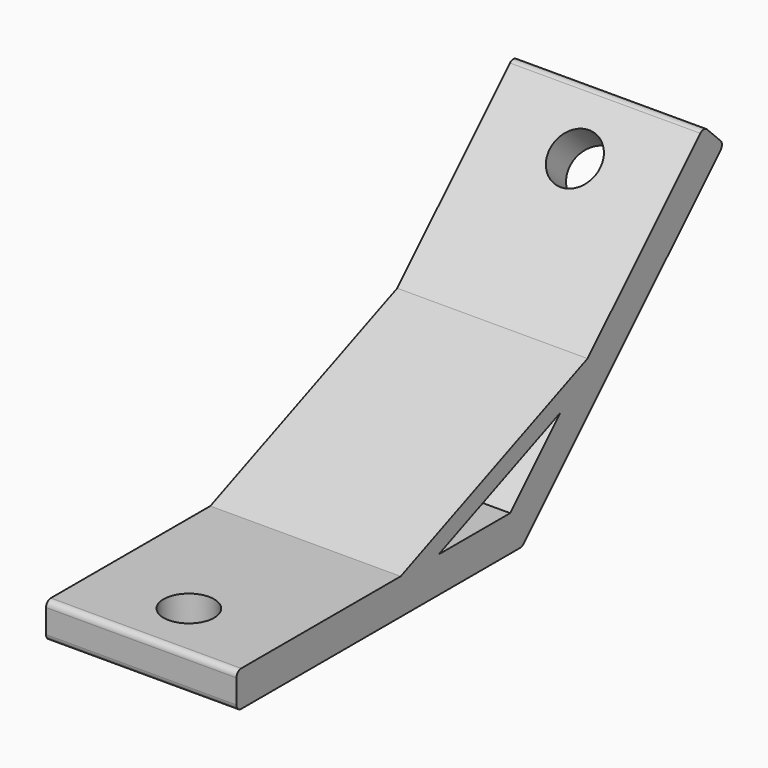
from build123d import *

# Parameters (mm, degrees)
PAD_DEPTH       = 16
SKETCH001_R     = 4.25
POCKET_DEPTH    = 6
SKETCH002_R     = 4.25
POCKET001_DEPTH = 6
FILLET_R        = 1


with BuildPart() as part:
    # Sketch → Pad (new body, symmetric)
    with BuildSketch(Plane.YZ):
        Polygon((-60, 0), (0, 0), (42.4264068712, 42.4264068712), (38.1837661841, 46.6690475583), (13.7781745931, 22.2634559673), (-25.4852813742, 6), (-60, 6), align=None)
        Polygon((8.1213203436, 16.6066017178), (-17.4852813742, 6), (-2.4852813742, 6), align=None, mode=Mode.SUBTRACT)
    extrude(amount=PAD_DEPTH, both=True)

    # Sketch001 (on Face6 of Pad) → Pocket (cut)
    with BuildSketch(Plane(origin=(0, 0, 6), x_dir=(0, -1, 0), z_dir=(0, 0, 1))):
        with Locations((50, 0)):
            Circle(SKETCH001_R)
    extrude(amount=-POCKET_DEPTH, mode=Mode.SUBTRACT)

    # Sketch002 (on Face9 of Pocket) → Pocket001 (cut)
    with BuildSketch(Plane(origin=(0, -4.2426406871, 4.2426406871), x_dir=(0, -0.7071067812, -0.7071067812), z_dir=(0, -0.7071067812, 0.7071067812))):
        with Locations((-50, 0)):
            Circle(SKETCH002_R)
    extrude(amount=-POCKET001_DEPTH, mode=Mode.SUBTRACT)

    # Fillet
    fillet_edges = [part.edges().sort_by_distance(p)[0] for p in [
        (0, 0, 0),
        (0, -60, 0),
        (0, -60, 6),
        (0, 38.183766, 46.669048),
        (0, 42.426407, 42.426407),
    ]]
    fillet(fillet_edges, radius=FILLET_R)


solid = part.part
